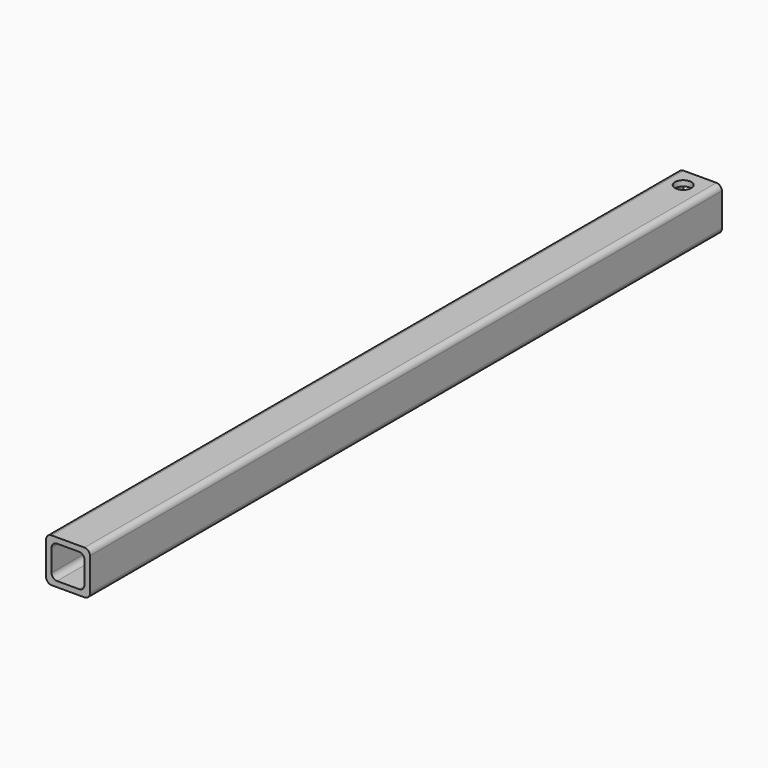
from build123d import *

# Parameters (mm, degrees)
F1_DEPTH = 457.2
F2_R     = 4.7625
F3_DEPTH = 25.4


with BuildPart() as f1:
    # F0 (on Front) → F1 (new body)
    with BuildSketch(Plane.XZ):
        with BuildLine():
            Line((-8.715044, -12.260614), (10.334956, -12.260614))
            ThreePointArc((10.334956, -12.260614), (12.58002, -11.330678), (13.509956, -9.085614))
            Line((13.509956, -9.085614), (13.509956, 9.964386))
            ThreePointArc((13.509956, 9.964386), (12.58002, 12.20945), (10.334956, 13.139386))
            Line((10.334956, 13.139386), (-8.715044, 13.139386))
            ThreePointArc((-8.715044, 13.139386), (-10.960108, 12.20945), (-11.890044, 9.964386))
            Line((-11.890044, 9.964386), (-11.890044, -9.085614))
            ThreePointArc((-11.890044, -9.085614), (-10.960108, -11.330678), (-8.715044, -12.260614))
        make_face()
        with BuildLine():
            ThreePointArc((10.334956, -5.910614), (9.40502, -8.155678), (7.159956, -9.085614))
            Line((7.159956, -9.085614), (-5.540044, -9.085614))
            ThreePointArc((-5.540044, -9.085614), (-7.785108, -8.155678), (-8.715044, -5.910614))
            Line((-8.715044, -5.910614), (-8.715044, 6.789386))
            ThreePointArc((-8.715044, 6.789386), (-7.785108, 9.03445), (-5.540044, 9.964386))
            Line((-5.540044, 9.964386), (7.159956, 9.964386))
            ThreePointArc((7.159956, 9.964386), (9.40502, 9.03445), (10.334956, 6.789386))
            Line((10.334956, 6.789386), (10.334956, -5.910614))
        make_face(mode=Mode.SUBTRACT)
    extrude(amount=F1_DEPTH)

    # F2 (on face) → F3 (cut)
    with BuildSketch(Plane.XY.offset(13.139386)):
        with Locations((0, -11.1125)):
            Circle(F2_R)
    extrude(amount=-F3_DEPTH, mode=Mode.SUBTRACT)


solid = f1.part
